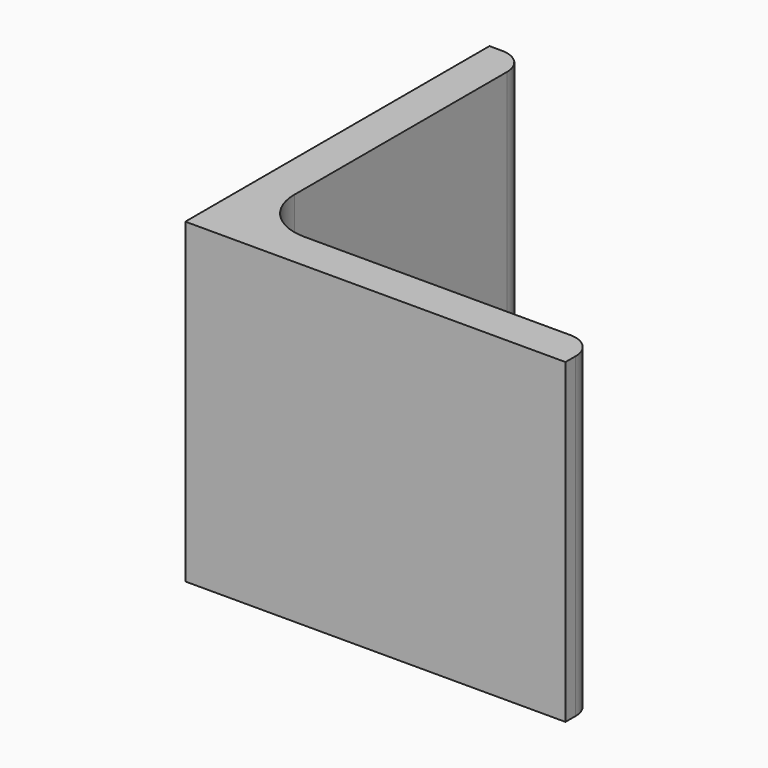
from build123d import *

# Parameters (mm, degrees)
EXTRUDE_DEPTH = 50


with BuildPart() as part:
    # Sketch → Extrude (new body)
    with BuildSketch(Plane.XY):
        with BuildLine():
            Line((0, 0), (60, 0))
            Line((60, 0), (60, 2))
            ThreePointArc((60, 2), (58.828427, 4.828427), (56, 6))
            Line((56, 6), (14, 6))
            ThreePointArc((6, 14), (8.343146, 8.343146), (14, 6))
            Line((6, 56), (6, 14))
            ThreePointArc((6, 56), (4.828427, 58.828427), (2, 60))
            Line((0, 60), (2, 60))
            Line((0, 0), (0, 60))
        make_face()
    extrude(amount=EXTRUDE_DEPTH)


solid = part.part
